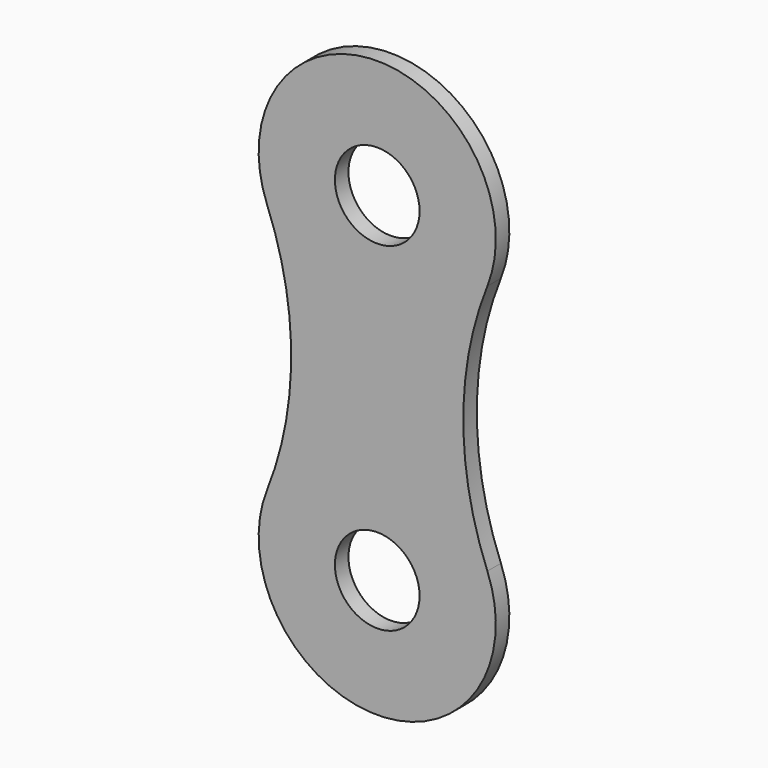
from build123d import *

# Parameters (mm, degrees)
F0_R     = 2.5
F1_DEPTH = 1


with BuildPart() as f1:
    # F0 (on Front) → F1 (new body)
    with BuildSketch(Plane.XZ):
        with BuildLine():
            ThreePointArc((6.502189, -7.407407), (5.079872, 0), (6.502189, 7.407407))
            ThreePointArc((6.502189, 7.407407), (0, 17), (-6.502189, 7.407407))
            ThreePointArc((-6.502189, 7.407407), (-5.079872, 0), (-6.502189, -7.407407))
            ThreePointArc((-6.502189, -7.407407), (0, -17), (6.502189, -7.407407))
        make_face()
        with Locations((0, -10)):
            Circle(F0_R, mode=Mode.SUBTRACT)
        with Locations((0, 10)):
            Circle(F0_R, mode=Mode.SUBTRACT)
    extrude(amount=F1_DEPTH)


solid = f1.part
